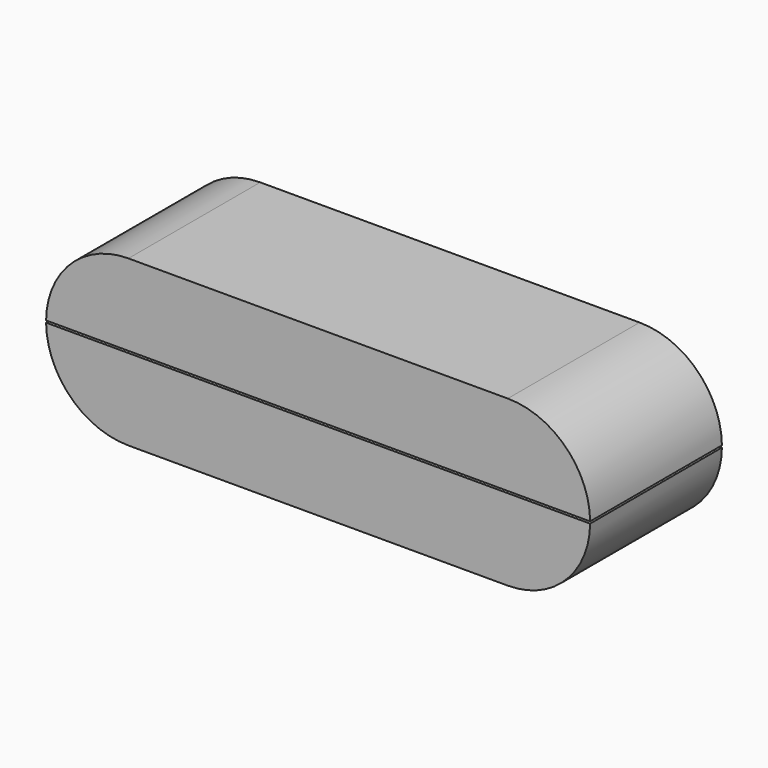
from build123d import *

# Parameters (mm, degrees)
F1_DEPTH = 165


with BuildPart() as f1:
    # F0 (on Front) → F1 (new body)
    with BuildSketch(Plane.XZ):
        with BuildLine():
            Line((-190, 1), (190, 1))
            Line((190, 1), (272.493939, 1))
            ThreePointArc((272.493939, 1), (247.981678, 58.688798), (190, 82.5))
            Line((190, 82.5), (-190, 82.5))
            ThreePointArc((-190, 82.5), (-247.981678, 58.688798), (-272.493939, 1))
            Line((-272.493939, 1), (-190, 1))
        make_face()
        with BuildLine():
            Line((272.493939, -0.999982), (190, -0.999982))
            Line((190, -0.999982), (-190, -0.999982))
            Line((-190, -0.999982), (-272.493939, -0.999982))
            ThreePointArc((-272.493939, -0.999982), (-247.981685, -58.688791), (-190, -82.5))
            Line((-190, -82.5), (190, -82.5))
            ThreePointArc((190, -82.5), (247.981685, -58.688791), (272.493939, -0.999982))
        make_face()
    extrude(amount=F1_DEPTH)


solid = f1.part
